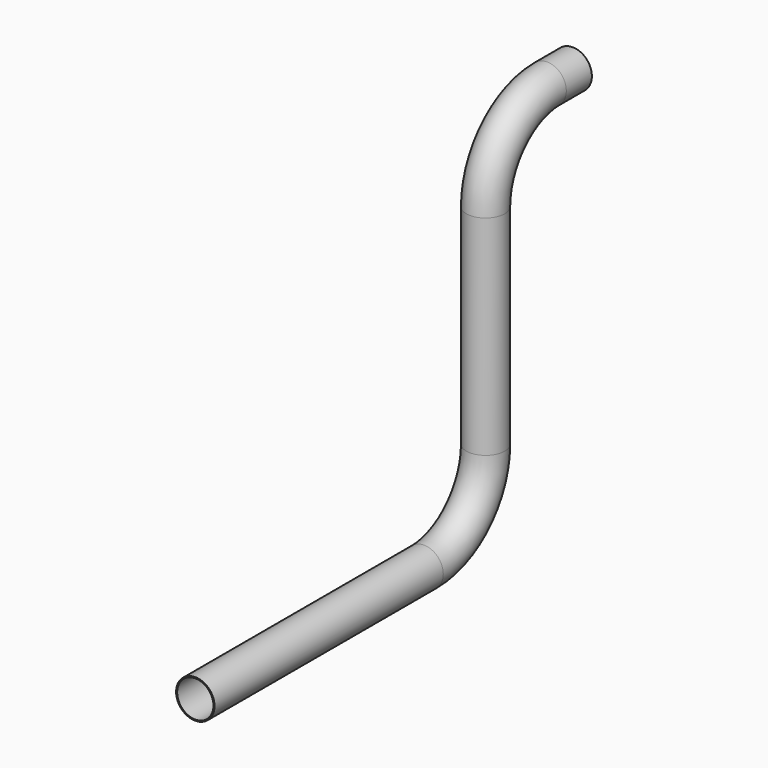
from build123d import *

# Parameters (mm, degrees)
F0_R   = 26.5
F0_R_2 = 25


with BuildPart() as f2:
    # F2: sweep along a path in F1
    with BuildLine(Plane.YZ) as f2_path:
        Line((0, 0), (-44, 0))
        ThreePointArc((-44, 0), (-118.953319, -31.046681), (-150, -106))
        Line((-150, -106), (-150, -394))
        ThreePointArc((-150, -394), (-181.046681, -468.953319), (-256, -500))
        Line((-256, -500), (-650, -500))
    # F0 (on Front) → F2 (sweep)
    with BuildSketch(Plane.XZ):
        Circle(F0_R)
        Circle(F0_R_2, mode=Mode.SUBTRACT)
    sweep(path=f2_path.line)


solid = f2.part
